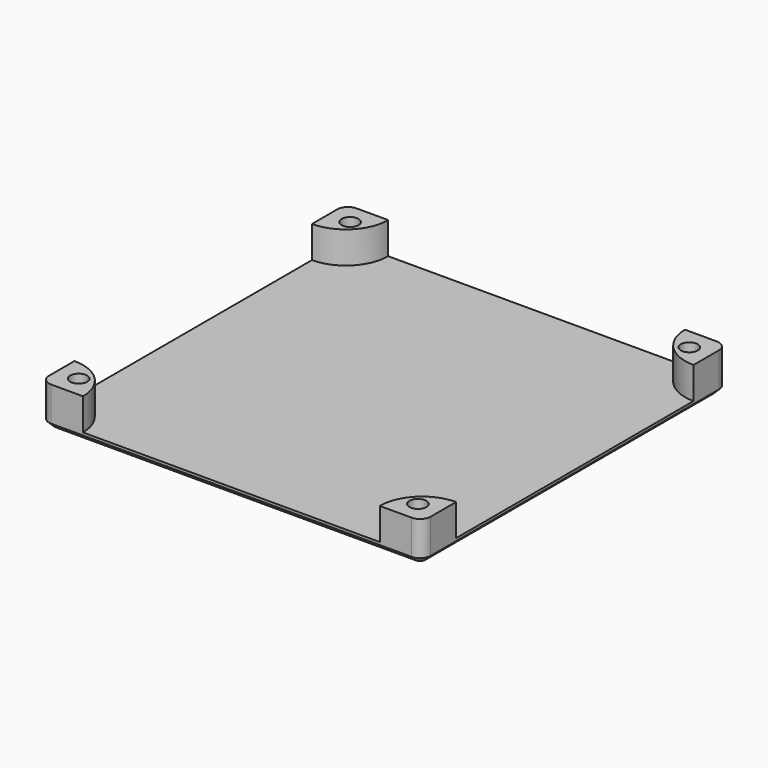
from build123d import *

# Parameters (mm, degrees)
SKETCH_W     = 72
SKETCH_H     = 72
PAD_DEPTH    = 1.5
PAD001_DEPTH = 6
SKETCH002_R  = 1.6
POCKET_DEPTH = 7.501
FILLET_R     = 2
CHAMFER_SIZE = 1


with BuildPart() as part:
    # Sketch → Pad (new body)
    with BuildSketch(Plane.XY):
        with Locations((36, -36)):
            Rectangle(SKETCH_W, SKETCH_H)
    extrude(amount=PAD_DEPTH)

    # Sketch001 (on Face6 of Pad) → Pad001 (join)
    with BuildSketch(Plane.XY.offset(1.5)):
        with BuildLine():
            ThreePointArc((0, -8), (5.656854, -5.656854), (8, 0))
            Line((0, 0), (8, 0))
            Line((0, -8), (0, 0))
        make_face()
        with BuildLine():
            ThreePointArc((8, -72), (5.656854, -66.343146), (0, -64))
            Line((0, -72), (0, -64))
            Line((8, -72), (0, -72))
        make_face()
        with BuildLine():
            ThreePointArc((72, -64), (66.343146, -66.343146), (64, -72))
            Line((64, -72), (72, -72))
            Line((72, -72), (72, -64))
        make_face()
        with BuildLine():
            ThreePointArc((64, 0), (66.343146, -5.656854), (72, -8))
            Line((72, -8), (72, 0))
            Line((72, 0), (64, 0))
        make_face()
    extrude(amount=PAD001_DEPTH)

    # Sketch002 (on Face14 of Pad001) → Pocket (cut, through all)
    with BuildSketch(Plane.XY.offset(7.5)):
        with Locations((4, -4)):
            Circle(SKETCH002_R)
        with Locations((68, -4)):
            Circle(SKETCH002_R)
        with Locations((68, -68)):
            Circle(SKETCH002_R)
        with Locations((4, -68)):
            Circle(SKETCH002_R)
    extrude(amount=-POCKET_DEPTH, mode=Mode.SUBTRACT)

    # Fillet
    fillet_edges = [part.edges().sort_by_distance(p)[0] for p in [
        (0, 0, 4.5),
        (72, 0, 4.5),
        (0, -72, 4.5),
        (72, -72, 4.5),
    ]]
    fillet(fillet_edges, radius=FILLET_R)

    # Chamfer
    chamfer_edges = [part.edges().sort_by_distance(p)[0] for p in [
        (36, -72, 0),
    ]]
    chamfer(chamfer_edges, length=CHAMFER_SIZE)


solid = part.part
